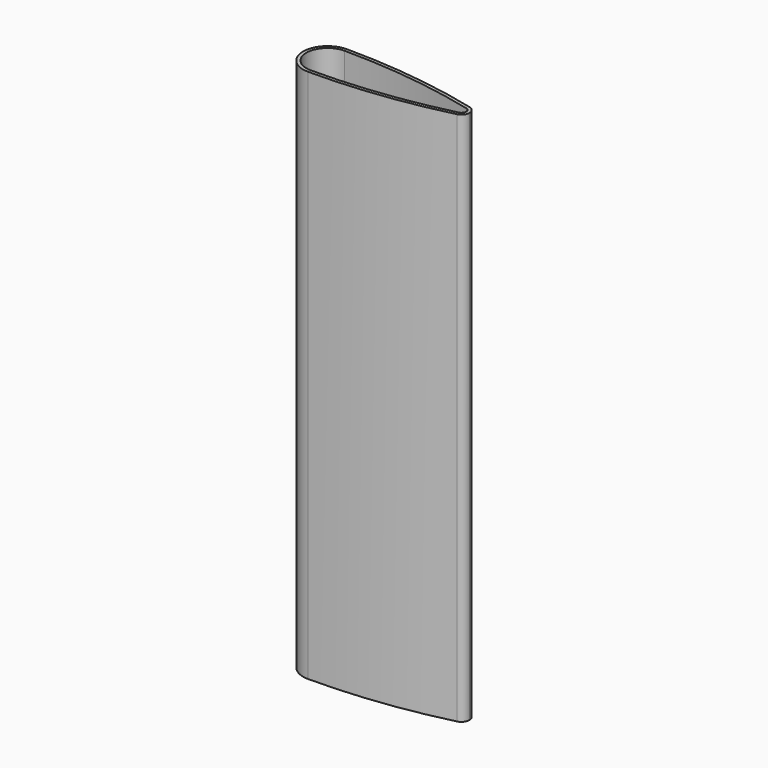
from build123d import *


with BuildPart() as f3:
    # F3: sweep along a path in F0
    with BuildLine(Plane.XZ) as f3_path:
        Line((-10, 0), (-10, 199.256644))
    # F1 (on Top) → F3 (sweep)
    with BuildSketch(Plane.XY):
        with BuildLine():
            Line((-12.130868, 7.8808), (-12.130868, 9.1))
            ThreePointArc((-12.130868, 9.1), (-21.230868, 0), (-12.130868, -9.1))
            ThreePointArc((-12.130868, -9.1), (13.368887, -7.547177), (38.491799, -2.911658))
            ThreePointArc((38.491799, -2.911658), (40.132181, -1.848242), (40.769132, 0))
            Line((40.769132, 0), (39.549932, 0))
            ThreePointArc((39.549932, 0), (39.171838, -1.097116), (38.198107, -1.72836))
            ThreePointArc((38.198107, -1.72836), (13.220948, -6.336986), (-12.130868, -7.8808))
            ThreePointArc((-12.130868, -7.8808), (-20.011668, 0), (-12.130868, 7.8808))
        make_face()
        with BuildLine():
            ThreePointArc((38.491799, 2.911658), (13.368887, 7.547177), (-12.130868, 9.1))
            Line((-12.130868, 9.1), (-12.130868, 7.8808))
            ThreePointArc((-12.130868, 7.8808), (13.220948, 6.336986), (38.198107, 1.72836))
            ThreePointArc((38.198107, 1.72836), (39.171838, 1.097116), (39.549932, 0))
            Line((39.549932, 0), (40.769132, 0))
            ThreePointArc((40.769132, 0), (40.132181, 1.848242), (38.491799, 2.911658))
        make_face()
    sweep(path=f3_path.line)


solid = f3.part
